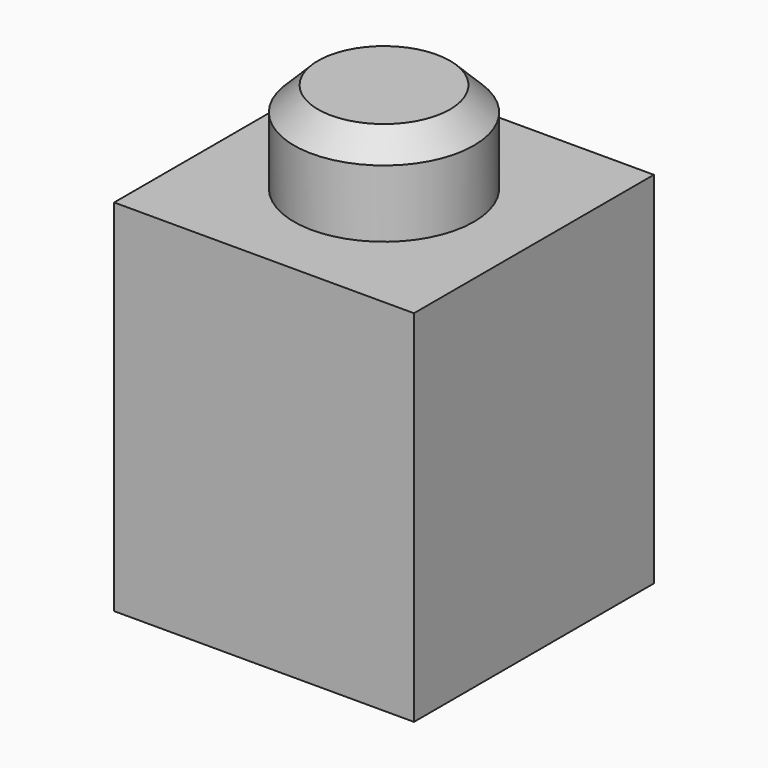
from build123d import *

# Parameters (mm, degrees)
F0_W     = 15.875
F0_H     = 15.875
F1_DEPTH = 9.525
F2_R     = 4.7625
F3_DEPTH = 4.826
F4_SIZE  = 1.27
F5_T     = -1.5875


with BuildPart() as f1:
    # F0 (on Top) → F1 (new body, symmetric)
    with BuildSketch(Plane.XY):
        Rectangle(F0_W, F0_H)
    extrude(amount=F1_DEPTH, both=True)

    # F2 (on face) → F3 (join)
    with BuildSketch(Plane.XY.offset(9.525)):
        Circle(F2_R)
    extrude(amount=F3_DEPTH)

    # F4
    f4_edges = [f1.edges().sort_by_distance(p)[0] for p in [
        (-4.7625, 0, 14.351),
    ]]
    chamfer(f4_edges, length=F4_SIZE)

    # F5
    f5_openings = [f1.faces().sort_by_distance(p)[0] for p in [
        (0, 0, -9.525),
    ]]
    offset(amount=F5_T, openings=f5_openings, kind=Kind.INTERSECTION)


solid = f1.part
